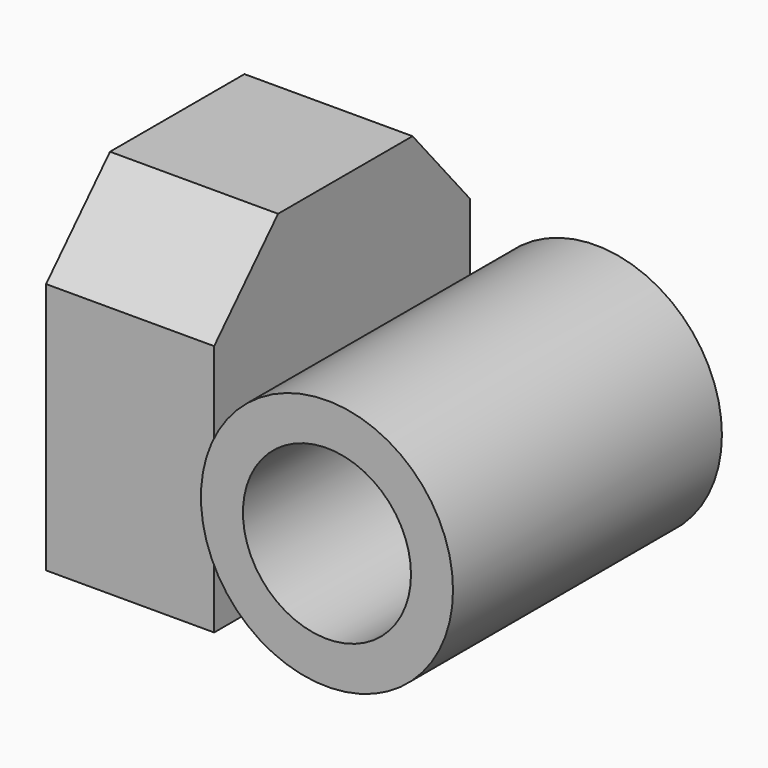
from build123d import *

# Parameters (mm, degrees)
F1_DEPTH = 12.7
F2_R     = 9.525
F2_R_2   = 6.35
F3_DEPTH = 25.4


with BuildPart() as f1:
    # F0 (on Right) → F1 (new body)
    with BuildSketch(Plane.YZ):
        Polygon((-24.150821, 0), (0, 0), (0, 19.05), (-5.413115, 25.4), (-18.113115, 25.4), (-24.150821, 19.05), align=None)
    extrude(amount=F1_DEPTH)

    # F2 (on Front) → F3 (join)
    with BuildSketch(Plane.XZ):
        with Locations((22.225, 9.525)):
            Circle(F2_R)
        with Locations((22.225, 9.525)):
            Circle(F2_R_2, mode=Mode.SUBTRACT)
    extrude(amount=F3_DEPTH)


solid = f1.part
